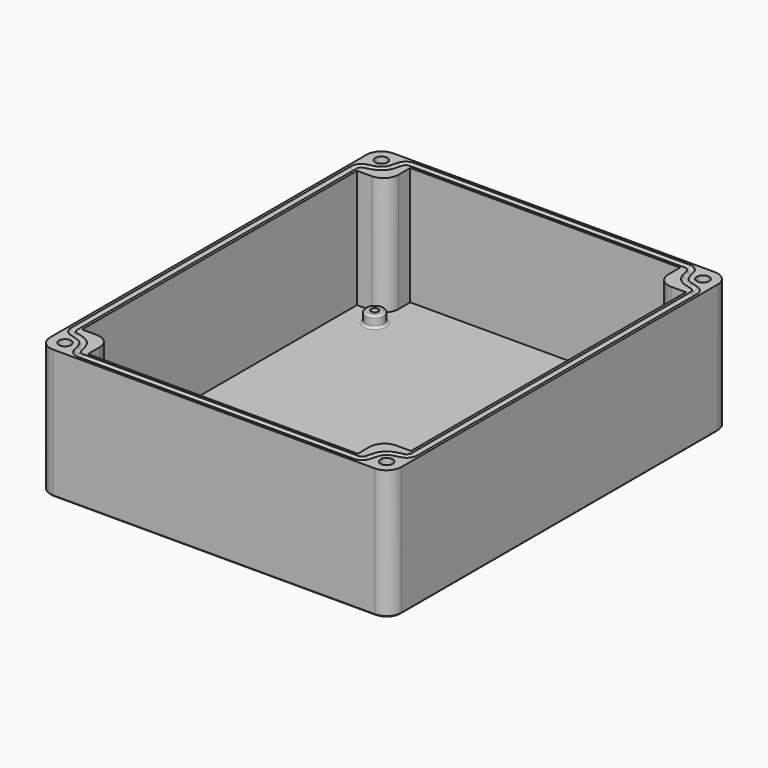
from build123d import *

# Parameters (mm, degrees)
SKETCH_R        = 1.65
PAD_DEPTH       = 35
POCKET_DEPTH    = 32
SKETCH004_R     = 0.8
POCKET002_DEPTH = 32
SKETCH010_R     = 2.5
SKETCH010_R_2   = 1
PAD002_DEPTH    = 3
FILLET_R        = 0.6
CHAMFER001_SIZE = 0.3


with BuildPart() as part:
    # Sketch → Pad (new body)
    with BuildSketch(Plane.XY):
        with BuildLine():
            Line((-47.5, 53.5), (-47.5, -53.5))
            ThreePointArc((-47.5, -53.5), (-46.328427, -56.328427), (-43.5, -57.5))
            Line((-43.5, -57.5), (43.5, -57.5))
            ThreePointArc((43.5, -57.5), (46.328427, -56.328427), (47.5, -53.5))
            Line((47.5, 53.5), (47.5, -53.5))
            ThreePointArc((47.5, 53.5), (46.328427, 56.328427), (43.5, 57.5))
            Line((-43.5, 57.5), (43.5, 57.5))
            ThreePointArc((-43.5, 57.5), (-46.328427, 56.328427), (-47.5, 53.5))
        make_face()
        with Locations((-43.5, 53.5)):
            Circle(SKETCH_R, mode=Mode.SUBTRACT)
        with Locations((43.5, -53.5)):
            Circle(SKETCH_R, mode=Mode.SUBTRACT)
        with Locations((-43.5, -53.5)):
            Circle(SKETCH_R, mode=Mode.SUBTRACT)
        with Locations((43.5, 53.5)):
            Circle(SKETCH_R, mode=Mode.SUBTRACT)
    extrude(amount=PAD_DEPTH)

    # Sketch001 (on Face14 of Pad) → Pocket (cut)
    with BuildSketch(Plane.XY.offset(35)):
        with BuildLine():
            ThreePointArc((-40.5, 46.5), (-37.671573, 47.671573), (-36.5, 50.5))
            Line((-36.5, 50.5), (-36.5, 54.5))
            Line((-36.5, 54.5), (36.5, 54.5))
            Line((36.5, 50.5), (36.5, 54.5))
            ThreePointArc((36.5, 50.5), (37.671573, 47.671573), (40.5, 46.5))
            Line((40.5, 46.5), (44.5, 46.5))
            Line((44.5, -46.5), (44.5, 46.5))
            Line((40.5, -46.5), (44.5, -46.5))
            ThreePointArc((40.5, -46.5), (37.671573, -47.671573), (36.5, -50.5))
            Line((36.5, -54.5), (36.5, -50.5))
            Line((-36.5, -54.5), (36.5, -54.5))
            Line((-36.5, -50.5), (-36.5, -54.5))
            ThreePointArc((-36.5, -50.5), (-37.671573, -47.671573), (-40.5, -46.5))
            Line((-40.5, -46.5), (-44.5, -46.5))
            Line((-44.5, 46.5), (-44.5, -46.5))
            Line((-40.5, 46.5), (-44.5, 46.5))
        make_face()
    extrude(amount=-POCKET_DEPTH, mode=Mode.SUBTRACT)

    # SubtractivePipe: sweep along a path in Sketch003
    with BuildLine(Plane.XY) as subtractivepipe_path:
        ThreePointArc((42.585786, -49.757359), (40.792635, -50.792635), (39.757359, -52.585786))
        Line((39.757359, -52.585786), (39.239721, -54.517638))
        ThreePointArc((39.239721, -54.517638), (38.525392, -55.586707), (37.30787, -56))
        Line((37.30787, -56), (-37.30787, -56))
        ThreePointArc((-37.30787, -56), (-38.525392, -55.586707), (-39.239721, -54.517638))
        Line((-39.239721, -54.517638), (-39.757359, -52.585786))
        ThreePointArc((-39.757359, -52.585786), (-40.792635, -50.792635), (-42.585786, -49.757359))
        Line((-42.585786, -49.757359), (-44.517638, -49.239721))
        ThreePointArc((-44.517638, -49.239721), (-45.586707, -48.525392), (-46, -47.30787))
        Line((-46, -47.30787), (-46, 47.30787))
        ThreePointArc((-46, 47.30787), (-45.586707, 48.525392), (-44.517638, 49.239721))
        Line((-44.517638, 49.239721), (-42.585786, 49.757359))
        ThreePointArc((-42.585786, 49.757359), (-40.792635, 50.792635), (-39.757359, 52.585786))
        Line((-39.757359, 52.585786), (-39.239721, 54.517638))
        ThreePointArc((-39.239721, 54.517638), (-38.525392, 55.586707), (-37.30787, 56))
        Line((-37.30787, 56), (37.30787, 56))
        ThreePointArc((37.30787, 56), (38.525392, 55.586707), (39.239721, 54.517638))
        Line((39.239721, 54.517638), (39.757359, 52.585786))
        ThreePointArc((39.757359, 52.585786), (40.792635, 50.792635), (42.585786, 49.757359))
        Line((42.585786, 49.757359), (44.517638, 49.239721))
        ThreePointArc((44.517638, 49.239721), (45.586707, 48.525392), (46, 47.30787))
        Line((46, 47.30787), (46, -47.30787))
        ThreePointArc((46, -47.30787), (45.586707, -48.525392), (44.517638, -49.239721))
        Line((44.517638, -49.239721), (42.585786, -49.757359))
    # Sketch004 → SubtractivePipe (sweep, cut)
    with BuildSketch(Plane.XZ):
        with Locations((46, 35)):
            Circle(SKETCH004_R)
    sweep(path=subtractivepipe_path.line, mode=Mode.SUBTRACT)

    # Sketch009 (on Face4 of SubtractivePipe) → Pocket002 (cut)
    with BuildSketch(Plane(origin=(0, 0, 0), x_dir=(1, 0, 0), z_dir=(0, 0, -1))):
        Polygon((-42.658838, 50.360741), (-40.360741, 52.658838), (-41.201903, 55.798097), (-44.341162, 56.639259), (-46.639259, 54.341162), (-45.798097, 51.201903), align=None)
        Polygon((45.798097, 51.201903), (46.639259, 54.341162), (44.341162, 56.639259), (41.201903, 55.798097), (40.360741, 52.658838), (42.658838, 50.360741), align=None)
        Polygon((-40.360741, -52.658838), (-42.658838, -50.360741), (-45.798097, -51.201903), (-46.639259, -54.341162), (-44.341162, -56.639259), (-41.201903, -55.798097), align=None)
        Polygon((46.639259, -54.341162), (45.798097, -51.201903), (42.658838, -50.360741), (40.360741, -52.658838), (41.201903, -55.798097), (44.341162, -56.639259), align=None)
    extrude(amount=-POCKET002_DEPTH, mode=Mode.SUBTRACT)

    # Sketch010 (on Face84 of Pocket002) → Pad002 (join)
    with BuildSketch(Plane.XY.offset(3)):
        with Locations((-36.5, 42.5)):
            Circle(SKETCH010_R)
        with Locations((-36.5, 42.5)):
            Circle(SKETCH010_R_2, mode=Mode.SUBTRACT)
        with Locations((36.5, 42.5)):
            Circle(SKETCH010_R)
        with Locations((36.5, 42.5)):
            Circle(SKETCH010_R_2, mode=Mode.SUBTRACT)
        with Locations((-36.5, -42.5)):
            Circle(SKETCH010_R)
        with Locations((-36.5, -42.5)):
            Circle(SKETCH010_R_2, mode=Mode.SUBTRACT)
        with Locations((36.5, -42.5)):
            Circle(SKETCH010_R)
        with Locations((36.5, -42.5)):
            Circle(SKETCH010_R_2, mode=Mode.SUBTRACT)
    extrude(amount=PAD002_DEPTH)

    # Fillet
    fillet_edges = [part.edges().sort_by_distance(p)[0] for p in [
        (34, -42.5, 3),
        (34, -42.5, 6),
        (-39, -42.5, 6),
        (-39, -42.5, 3),
        (-39, 42.5, 3),
        (-39, 42.5, 6),
        (34, 42.5, 6),
        (34, 42.5, 3),
    ]]
    fillet(fillet_edges, radius=FILLET_R)

    # Chamfer001
    chamfer001_edges = [part.edges().sort_by_distance(p)[0] for p in [
        (-46.328427, 56.328427, 0),
        (0, 57.5, 0),
        (-47.5, 0, 0),
        (46.328427, 56.328427, 0),
        (-46.328427, -56.328427, 0),
        (47.5, 0, 0),
        (0, -57.5, 0),
        (46.328427, -56.328427, 0),
        (-44.228468, -50.781322, 0),
        (-46.218678, -52.771532, 0),
        (-45.49021, -55.49021, 0),
        (-42.771532, -56.218678, 0),
        (-40.781322, -54.228468, 0),
        (-41.50979, -51.50979, 0),
        (44.228468, -50.781322, 0),
        (41.50979, -51.50979, 0),
        (40.781322, -54.228468, 0),
        (42.771532, -56.218678, 0),
        (45.49021, -55.49021, 0),
        (46.218678, -52.771532, 0),
        (-40.781322, 54.228468, 0),
        (-42.771532, 56.218678, 0),
        (-45.49021, 55.49021, 0),
        (-46.218678, 52.771532, 0),
        (-44.228468, 50.781322, 0),
        (-41.50979, 51.50979, 0),
        (44.228468, 50.781322, 0),
        (46.218678, 52.771532, 0),
        (45.49021, 55.49021, 0),
        (42.771532, 56.218678, 0),
        (40.781322, 54.228468, 0),
        (41.50979, 51.50979, 0),
    ]]
    chamfer(chamfer001_edges, length=CHAMFER001_SIZE)


solid = part.part
